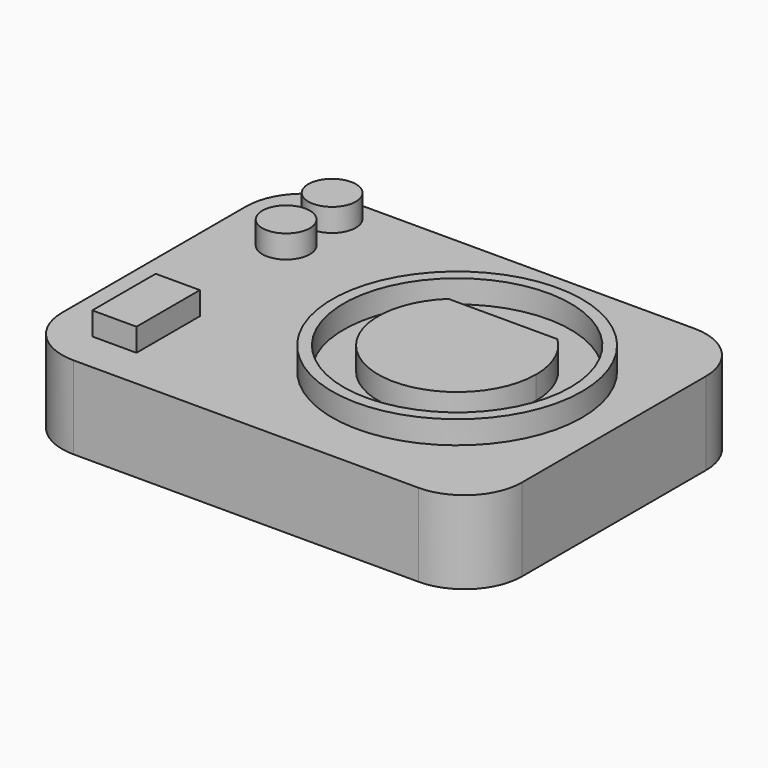
from build123d import *

# Parameters (mm, degrees)
F0_R     = 11.6
F0_R_2   = 9.6
F1_DEPTH = 5.2
F2_R     = 11.6
F2_R_2   = 9.6
F3_DEPTH = 2
F4_W     = 40
F4_H     = 30
F4_R     = 11.6
F5_DEPTH = 7.2
F6_R     = 5
F7_R     = 10.8681902922
F7_R_2   = 9.8681902922
F7_W     = 3.8435366005
F7_H     = 6.8932622671
F7_R_3   = 2.0674977133
F8_DEPTH = 2


with BuildPart() as f1:
    # F0 (on Top) → F1 (new body)
    with BuildSketch(Plane.XY):
        Circle(F0_R)
        Circle(F0_R_2, mode=Mode.SUBTRACT)
    extrude(amount=F1_DEPTH)

    # F2 (on face) → F3 (join)
    with BuildSketch(Plane.XY.offset(5.2)):
        Circle(F2_R)
        Circle(F2_R_2, mode=Mode.SUBTRACT)
        Circle(F2_R_2)
    extrude(amount=F3_DEPTH)

    # F4 (on face) → F5 (join)
    with BuildSketch(Plane.XY.offset(7.2)):
        Rectangle(F4_W, F4_H)
        Circle(F4_R, mode=Mode.SUBTRACT)
    extrude(amount=-F5_DEPTH)

    # F6
    f6_edges = [f1.edges().sort_by_distance(p)[0] for p in [
        (-20, -15, 3.6),
        (-20, 15, 3.6),
        (20, -15, 3.6),
        (20, 15, 3.6),
    ]]
    fillet(f6_edges, radius=F6_R)

    # F7 (on face) → F8 (join)
    with BuildSketch(Plane.XY.offset(7.2)):
        with Locations((6.3613462262, 0)):
            Circle(F7_R)
        with Locations((6.3613462262, 0)):
            Circle(F7_R_2, mode=Mode.SUBTRACT)
        with BuildLine():
            ThreePointArc((1.6207129094, 4.9697518697), (3.6583417714, -6.3139373459), (13.2295365184, 0))
            ThreePointArc((13.2295365184, 0), (12.6752835721, 2.7030044548), (11.1019795429, 4.9697518697))
            Line((11.1019795429, 4.9697518697), (1.6207129094, 4.9697518697))
        make_face()
        with Locations((-14.2829688266, -8.0176712945)):
            Rectangle(F7_W, F7_H)
        with Locations((-14.2829688266, 7.2108898312)):
            Circle(F7_R_3)
        with Locations((-14.2829688266, 12.2118974105)):
            Circle(F7_R_3)
    extrude(amount=F8_DEPTH)


solid = f1.part
